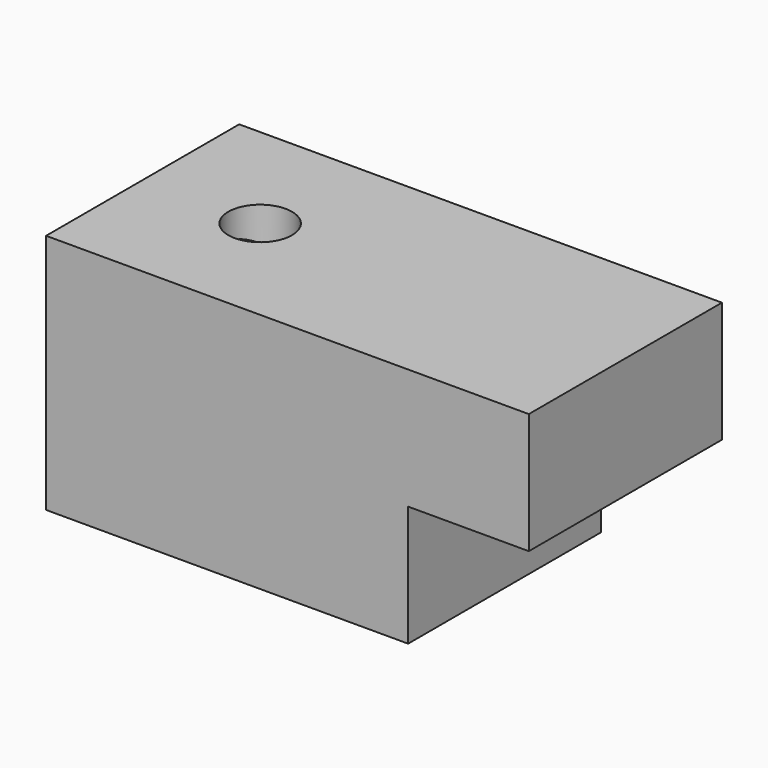
from build123d import *

# Parameters (mm, degrees)
F1_DEPTH = 25.4
F3_R     = 4.8121462922
F4_DEPTH = 50.8
F6_R     = 4.8597300297
F7_DEPTH = 25.4
F8_R     = 3.348410215
F9_DEPTH = 7.62


with BuildPart() as f1:
    # F0 (on Front) → F1 (new body)
    with BuildSketch(Plane.XZ):
        Polygon((-22.5596427917, 14.7743310452), (-22.5596427917, -10.6256689548), (15.5403572083, -10.6256689548), (15.5403572083, 2.0743310452), (28.2403572083, 2.0743310452), (28.2403572083, 14.7743310452), align=None)
    extrude(amount=F1_DEPTH)

    # F3 (on offset) → F4 (cut)
    with BuildSketch(Plane.YZ.offset(9.6647944301)):
        with Locations((-12.7, 7.1543310452)):
            Circle(F3_R)
    extrude(amount=-F4_DEPTH, mode=Mode.SUBTRACT)

    # F6 (on offset) → F7 (cut)
    with BuildSketch(Plane.XY.offset(11.9803310452)):
        with Locations((4.8589497015, -13.0971787283)):
            Circle(F6_R)
    extrude(amount=-F7_DEPTH, mode=Mode.SUBTRACT)

    # F8 (on face) → F9 (cut)
    with BuildSketch(Plane.XY.offset(14.7743310452)):
        with Locations((-10.1922675967, -12.7)):
            Circle(F8_R)
    extrude(amount=-F9_DEPTH, mode=Mode.SUBTRACT)


solid = f1.part
